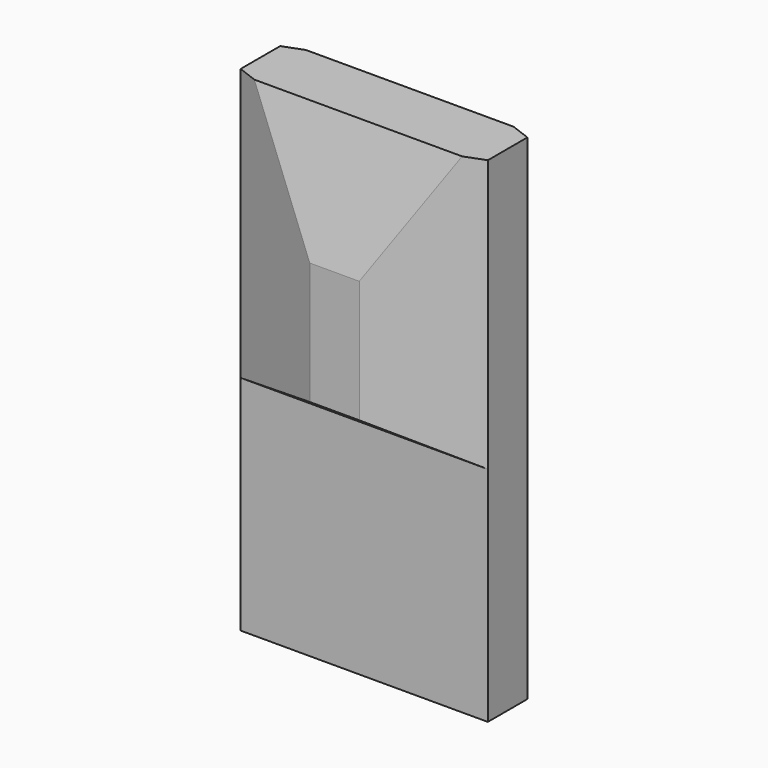
from build123d import *

# Parameters (mm, degrees)
F1_DEPTH = 12.7
F3_DEPTH = 25.4


with BuildPart() as f1:
    # F0 (on Top) → F1 (new body, symmetric)
    with BuildSketch(Plane.XY):
        Polygon((1.27, 3.175), (-1.27, 3.175), (-6.35, 1.27), (-6.35, 0), (-6.35, -1.27), (-1.27, -3.175), (1.27, -3.175), (6.35, -1.27), (6.35, 0), (6.35, 1.27), align=None)
    extrude(amount=F1_DEPTH, both=True)

    # F2 (on Right) → F3 (cut, symmetric)
    with BuildSketch(Plane.YZ):
        Polygon((-3.175, 6.35), (-1.651, 12.7), (-3.175, 12.7), align=None)
        Polygon((3.175, 12.7), (1.651, 12.7), (3.175, 6.35), align=None)
        Polygon((-1.27, -1.27), (-4.504891, 0.995095), (-4.504891, -17.611628), (-1.27, -17.611628), align=None)
        Polygon((1.27, -17.611628), (4.504891, -17.611628), (4.504891, 0.995095), (1.27, -1.27), align=None)
    extrude(amount=F3_DEPTH, both=True, mode=Mode.SUBTRACT)


solid = f1.part
